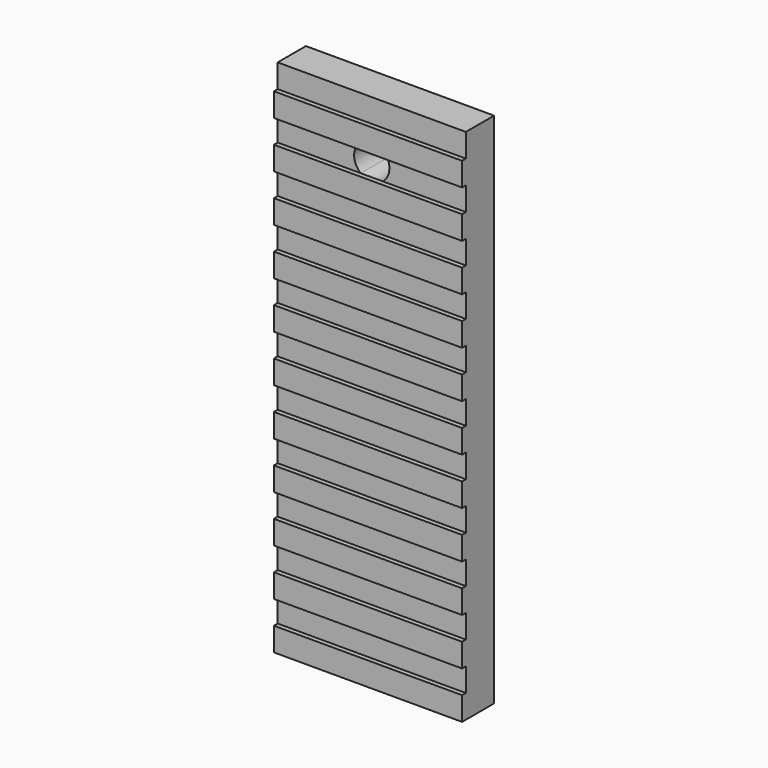
from build123d import *

# Parameters (mm, degrees)
F0_W     = 101.6
F0_H     = 279.4
F1_DEPTH = 19.05
F2_W     = 101.6
F2_H     = 12.7
F3_DEPTH = 2.54
F5_DEPTH = 25.4


with BuildPart() as f1:
    # F0 (on Front) → F1 (new body)
    with BuildSketch(Plane.XZ):
        with Locations((-78.7492649078, -32.640619709)):
            Rectangle(F0_W, F0_H)
    extrude(amount=F1_DEPTH)

    # F2 (on face) → F3 (join)
    with BuildSketch(Plane.XZ.offset(19.05)):
        with Locations((-78.7492649078, -115.190619709)):
            Rectangle(F2_W, F2_H)
        with Locations((-78.7492649078, -89.790619709)):
            Rectangle(F2_W, F2_H)
        with Locations((-78.7492649078, -64.390619709)):
            Rectangle(F2_W, F2_H)
        with Locations((-78.7492649078, -38.990619709)):
            Rectangle(F2_W, F2_H)
        with Locations((-78.7492649078, -13.590619709)):
            Rectangle(F2_W, F2_H)
        with Locations((-78.7492649078, 11.809380291)):
            Rectangle(F2_W, F2_H)
        with Locations((-78.7492649078, 37.209380291)):
            Rectangle(F2_W, F2_H)
        with Locations((-78.7492649078, 62.609380291)):
            Rectangle(F2_W, F2_H)
        with Locations((-78.7492649078, 88.009380291)):
            Rectangle(F2_W, F2_H)
        with Locations((-78.7492649078, -140.590619709)):
            Rectangle(F2_W, F2_H)
        with Locations((-78.7492649078, -165.990619709)):
            Rectangle(F2_W, F2_H)
    extrude(amount=F3_DEPTH)

    # F4 (on face) → F5 (cut)
    with BuildSketch(Plane.XZ.offset(19.05)):
        with BuildLine():
            Line((-86.6679660434, 81.659380291), (-70.8305637723, 81.659380291))
            ThreePointArc((-70.8305637723, 81.659380291), (-78.7492649078, 85.891007328), (-86.6679660434, 81.659380291))
        make_face()
        with BuildLine():
            ThreePointArc((-84.7382131406, 68.959380291), (-78.7492649078, 66.841007328), (-72.7603166751, 68.959380291))
            Line((-72.7603166751, 68.959380291), (-84.7382131406, 68.959380291))
        make_face()
        with BuildLine():
            ThreePointArc((-72.7603166751, 68.959380291), (-70.1536160982, 72.2622960149), (-69.2242649078, 76.366007328))
            ThreePointArc((-69.2242649078, 76.366007328), (-69.6346817216, 79.1318703655), (-70.8305637723, 81.659380291))
            Line((-70.8305637723, 81.659380291), (-86.6679660434, 81.659380291))
            ThreePointArc((-86.6679660434, 81.659380291), (-88.1661740472, 74.9351169543), (-84.7382131406, 68.959380291))
            Line((-84.7382131406, 68.959380291), (-72.7603166751, 68.959380291))
        make_face()
    extrude(amount=-F5_DEPTH, mode=Mode.SUBTRACT)


solid = f1.part
